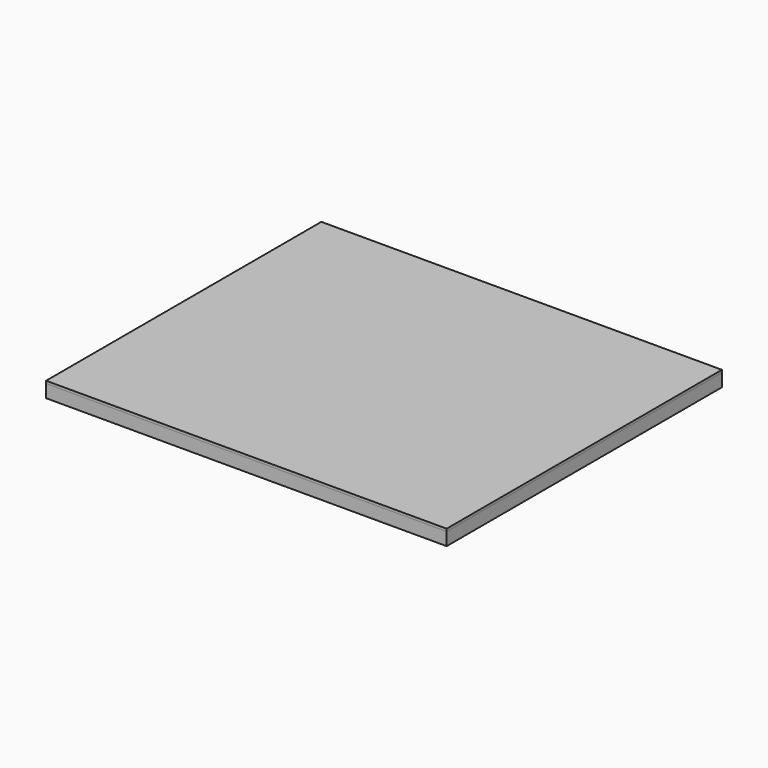
from build123d import *

# Parameters (mm, degrees)
F0_W     = 780
F0_H     = 670
F1_DEPTH = 25
F2_T     = -20
F3_R     = 2.5
F4_DEPTH = 5
F5_W     = 780
F5_H     = 670
F6_DEPTH = 5


with BuildPart() as f1:
    # F0 (on Top) → F1 (new body)
    with BuildSketch(Plane.XY):
        Rectangle(F0_W, F0_H)
    extrude(amount=F1_DEPTH)

    # F2
    f2_openings = [f1.faces().sort_by_distance(p)[0] for p in [
        (0, 0, 0),
    ]]
    offset(amount=F2_T, openings=f2_openings)

    # F3 (on face) → F4 (cut)
    with BuildSketch(Plane(origin=(0, 0, 0), x_dir=(1, 0, 0), z_dir=(0, 0, -1))):
        with Locations((-150, 325)):
            Circle(F3_R)
        with Locations((150, 325)):
            Circle(F3_R)
        with Locations((150, -325)):
            Circle(F3_R)
        with Locations((-150, -325)):
            Circle(F3_R)
    extrude(amount=-F4_DEPTH, mode=Mode.SUBTRACT)


with BuildPart() as f6:
    # F5 (on face) → F6 (new body)
    with BuildSketch(Plane.XY.offset(25)):
        Rectangle(F5_W, F5_H)
    extrude(amount=F6_DEPTH)


solid = Compound([f1.part, f6.part])
